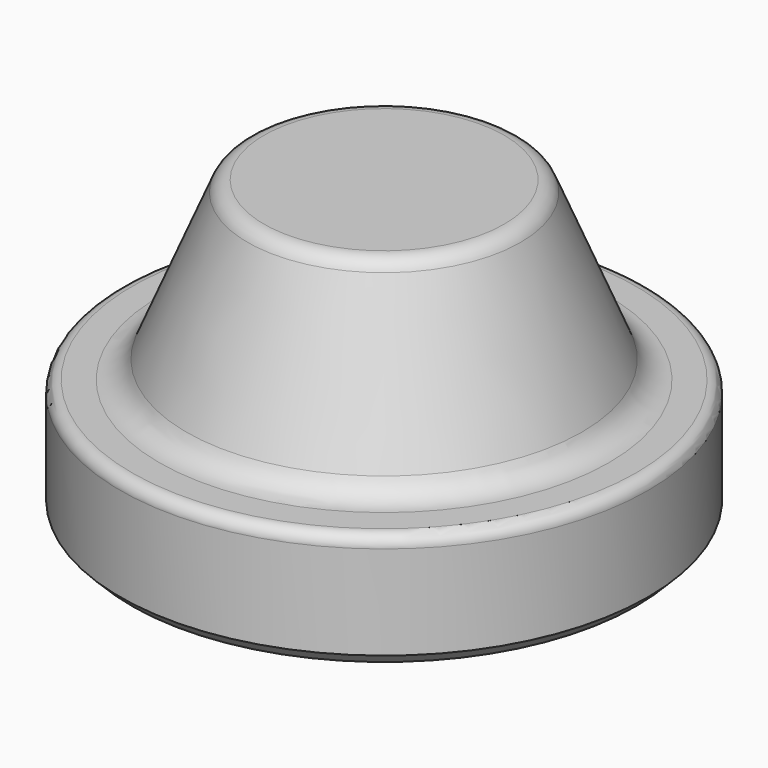
from build123d import *

# Parameters (mm, degrees)
F2_SIZE = 2


with BuildPart() as f1:
    # F0 (on Front) → F1 (revolve)
    with BuildSketch(Plane.XZ):
        with BuildLine():
            Line((20.5, 50), (0, 50))
            Line((0, 50), (0, 0))
            Line((0, 0), (45, 0))
            Line((45, 0), (45, 18))
            ThreePointArc((45, 18), (44.414214, 19.414214), (43, 20))
            Line((43, 20), (38.333333, 20))
            ThreePointArc((38.333333, 20), (35.559832, 20.839749), (33.717949, 23.076923))
            Line((33.717949, 23.076923), (23.269231, 48.153846))
            ThreePointArc((23.269231, 48.153846), (22.164101, 49.496151), (20.5, 50))
        make_face()
    revolve(axis=Axis((0, 0, 22.33778), (0, 0, -1)))

    # F2
    f2_edges = [f1.edges().sort_by_distance(p)[0] for p in [
        (-45, 0, 0),
    ]]
    chamfer(f2_edges, length=F2_SIZE)


solid = f1.part
